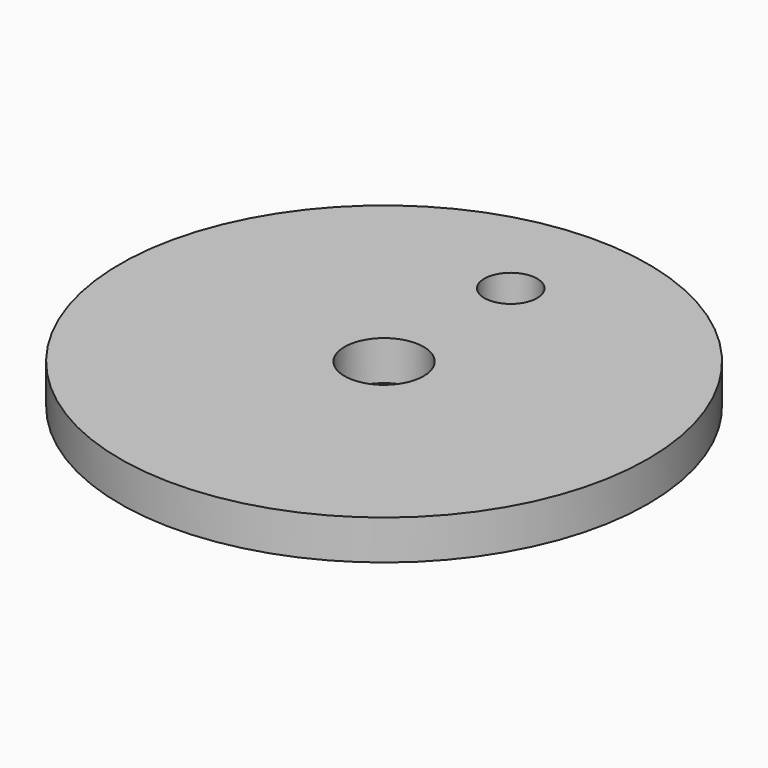
from build123d import *

# Parameters (mm, degrees)
F0_R     = 31.75
F0_R_2   = 4.7625
F0_R_3   = 3.175
F1_DEPTH = 4.7625


with BuildPart() as f1:
    # F0 (on Top) → F1 (new body)
    with BuildSketch(Plane.XY):
        Circle(F0_R)
        Circle(F0_R_2, mode=Mode.SUBTRACT)
        with Locations((0, 19.05)):
            Circle(F0_R_3, mode=Mode.SUBTRACT)
    extrude(amount=F1_DEPTH)


solid = f1.part
